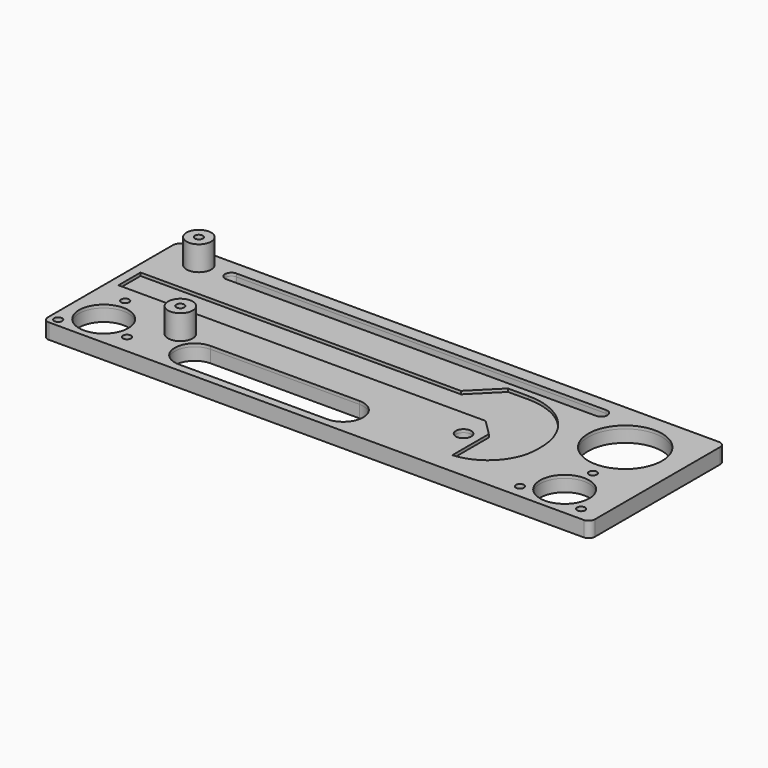
from build123d import *

# Parameters (mm, degrees)
SKETCH001_W     = 178
SKETCH001_H     = 55
SKETCH001_R     = 2.5
SKETCH001_R_2   = 8
SKETCH001_R_3   = 12.004096
PAD_DEPTH       = 1
SKETCH004_R     = 1.3
POCKET_DEPTH    = 9
SKETCH003_R     = 4
PAD001_DEPTH    = 8
SKETCH006_W     = 178
SKETCH006_H     = 55
SKETCH006_R     = 2.5
SKETCH006_R_2   = 8
SKETCH006_R_3   = 12.004096
PAD002_DEPTH    = 4
SKETCH_R        = 1.3
POCKET001_DEPTH = 13.001
SKETCH007_R     = 1.3
POCKET002_DEPTH = 5.001
FILLET_R        = 2


with BuildPart() as part:
    # Sketch001 → Pad (new body)
    with BuildSketch(Plane.XY):
        with Locations((-27.95005, 210.084131)):
            Rectangle(SKETCH001_W, SKETCH001_H)
        with Locations((5.54995, 200.560838)):
            Circle(SKETCH001_R, mode=Mode.SUBTRACT)
        with Locations((-105.249172, 192.692063)):
            Circle(SKETCH001_R_2, mode=Mode.SUBTRACT)
        with Locations((44.750828, 192.692063)):
            Circle(SKETCH001_R_2, mode=Mode.SUBTRACT)
        with Locations((42.270485, 220.407623)):
            Circle(SKETCH001_R_3, mode=Mode.SUBTRACT)
        with BuildLine():
            ThreePointArc((25.54995, 206.028969), (20.061493, 220.835101), (5.54995, 227.060838))
            Line((-1.19441, 227.060838), (5.54995, 227.060838))
            Line((-9.694456, 218.560838), (-1.19441, 227.060838))
            Line((-113.95005, 218.561117), (-9.694456, 218.560838))
            Line((-113.95005, 218.561117), (-113.95005, 209.560838))
            Line((-113.95005, 209.560838), (-9.618024, 209.560838))
            Line((-9.618024, 209.560838), (5.54995, 209.560838))
            Line((5.54995, 209.560838), (10.697892, 204.412896))
            Line((10.697892, 189.560838), (10.697892, 204.412896))
            ThreePointArc((10.697892, 189.560838), (21.441031, 194.803313), (25.54995, 206.028969))
        make_face(mode=Mode.SUBTRACT)
        with BuildLine():
            ThreePointArc((-74.793427, 198.14003), (-81.282837, 191.65062), (-74.793427, 185.16121))
            Line((-74.793427, 185.16121), (-26.440948, 185.16121))
            ThreePointArc((-26.440948, 185.16121), (-19.951538, 191.65062), (-26.440948, 198.14003))
            Line((-74.793427, 198.14003), (-26.440948, 198.14003))
        make_face(mode=Mode.SUBTRACT)
        with BuildLine():
            ThreePointArc((-94.612823, 233.364261), (-96.6561, 231.320984), (-94.612823, 229.277707))
            Line((-94.612823, 229.277707), (25.728859, 229.277707))
            ThreePointArc((25.728859, 229.277707), (27.772136, 231.320984), (25.728859, 233.364261))
            Line((-94.612823, 233.364261), (25.728859, 233.364261))
        make_face(mode=Mode.SUBTRACT)
    extrude(amount=PAD_DEPTH)

    # Sketch004 → Pocket (cut)
    with BuildSketch(Plane.XY.offset(10)):
        with Locations((-84.917816, 197.526398)):
            Circle(SKETCH004_R)
        with Locations((-104.937256, 231.505722)):
            Circle(SKETCH004_R)
    extrude(amount=-POCKET_DEPTH, mode=Mode.SUBTRACT)

    # Sketch003 (on Face28 of Pad) → Pad001 (join)
    with BuildSketch(Plane.XY.offset(1)):
        with Locations((-84.943253, 198.501221)):
            Circle(SKETCH003_R)
        with Locations((-104.954079, 231.041534)):
            Circle(SKETCH003_R)
    extrude(amount=PAD001_DEPTH)

    # Sketch006 → Pad002 (join)
    with BuildSketch(Plane.XY):
        with Locations((-27.95005, 210.084131)):
            Rectangle(SKETCH006_W, SKETCH006_H)
        with Locations((5.54995, 200.560838)):
            Circle(SKETCH006_R, mode=Mode.SUBTRACT)
        with Locations((-105.249172, 192.692063)):
            Circle(SKETCH006_R_2, mode=Mode.SUBTRACT)
        with Locations((44.750828, 192.692063)):
            Circle(SKETCH006_R_2, mode=Mode.SUBTRACT)
        with Locations((42.270485, 220.407623)):
            Circle(SKETCH006_R_3, mode=Mode.SUBTRACT)
        with BuildLine():
            ThreePointArc((-74.793427, 198.14003), (-81.282837, 191.65062), (-74.793427, 185.16121))
            Line((-74.793427, 185.16121), (-26.440948, 185.16121))
            ThreePointArc((-26.440948, 185.16121), (-19.951538, 191.65062), (-26.440948, 198.14003))
            Line((-74.793427, 198.14003), (-26.440948, 198.14003))
        make_face(mode=Mode.SUBTRACT)
        with BuildLine():
            ThreePointArc((-94.612823, 233.364261), (-96.6561, 231.320984), (-94.612823, 229.277707))
            Line((-94.612823, 229.277707), (25.728859, 229.277707))
            ThreePointArc((25.728859, 229.277707), (27.772136, 231.320984), (25.728859, 233.364261))
            Line((-94.612823, 233.364261), (25.728859, 233.364261))
        make_face(mode=Mode.SUBTRACT)
    extrude(amount=-PAD002_DEPTH)

    # Sketch (on Face48 of Pad002) → Pocket001 (cut, through all)
    with BuildSketch(Plane.XY.offset(9)):
        with Locations((-84.945648, 198.486725)):
            Circle(SKETCH_R)
        with Locations((-104.952744, 231.032135)):
            Circle(SKETCH_R)
    extrude(amount=-POCKET001_DEPTH, mode=Mode.SUBTRACT)

    # Sketch007 → Pocket002 (cut, through all)
    with BuildSketch(Plane.XY.offset(1)):
        with Locations((44.774215, 204.16173)):
            Circle(SKETCH007_R)
        with Locations((34.814923, 186.91173)):
            Circle(SKETCH007_R)
        with Locations((54.733507, 186.91173)):
            Circle(SKETCH007_R)
        with Locations((-107.25934, 203.941744)):
            Circle(SKETCH007_R)
        with Locations((-114.071897, 185.224398)):
            Circle(SKETCH007_R)
        with Locations((-94.455921, 188.683224)):
            Circle(SKETCH007_R)
    extrude(amount=-POCKET002_DEPTH, mode=Mode.SUBTRACT)

    # Fillet
    fillet_edges = [part.edges().sort_by_distance(p)[0] for p in [
        (-116.95005, 237.584131, -2),
        (-116.95005, 237.584131, 0.5),
        (61.04995, 237.584131, -2),
        (61.04995, 237.584131, 0.5),
        (61.04995, 182.584131, -2),
        (61.04995, 182.584131, 0.5),
        (-116.95005, 182.584131, -2),
        (-116.95005, 182.584131, 0.5),
    ]]
    fillet(fillet_edges, radius=FILLET_R)


solid = part.part
